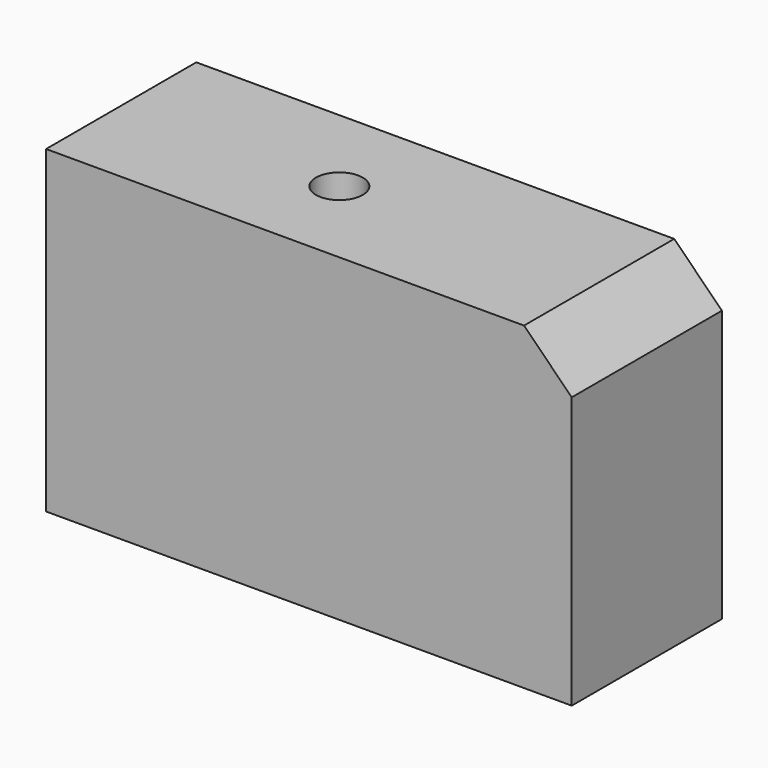
from build123d import *

# Parameters (mm, degrees)
F0_W     = 56
F0_H     = 34
F1_DEPTH = 20
F3_D     = 5
F4_SIZE  = 5.08


with BuildPart() as f1:
    # F0 (on Front) → F1 (new body)
    with BuildSketch(Plane.XZ):
        with Locations((28, 17)):
            Rectangle(F0_W, F0_H)
    extrude(amount=F1_DEPTH)

    # F3 (through all)
    with Locations(Plane.XY.offset(34)):
        with Locations((23.244202, -10)):
            Hole(F3_D / 2)

    # F4
    f4_edges = [f1.edges().sort_by_distance(p)[0] for p in [
        (56, -10, 34),
    ]]
    chamfer(f4_edges, length=F4_SIZE)


solid = f1.part
